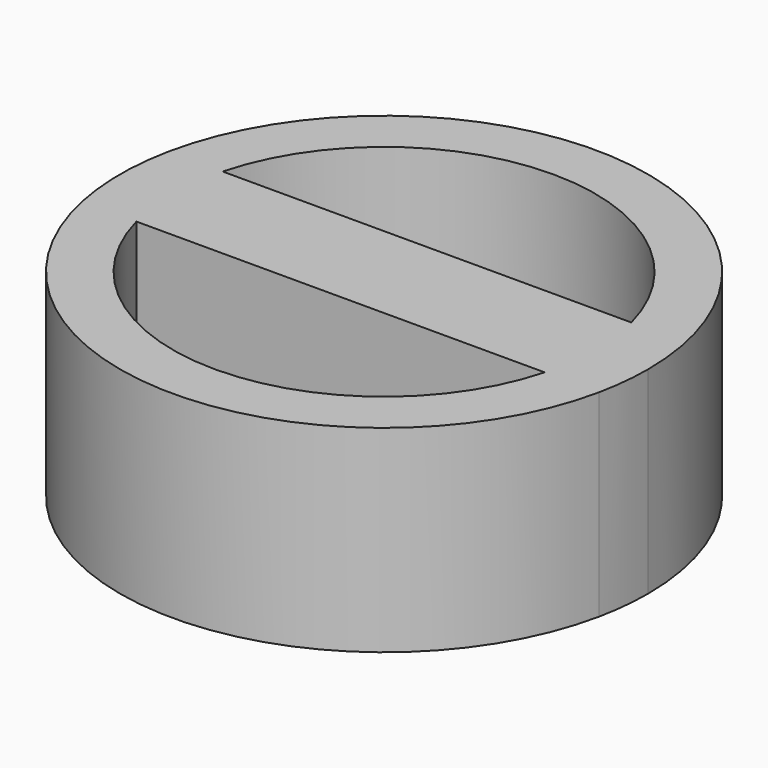
from build123d import *

# Parameters (mm, degrees)
F1_DEPTH = 25.4


with BuildPart() as f1:
    # F0 (on Top) → F1 (new body)
    with BuildSketch(Plane.XY):
        with BuildLine():
            Line((-38.3232010191, -9.2695544713), (-38.3232010191, 4.5363511242))
            ThreePointArc((-38.3232010191, 4.5363511242), (-39.0324708339, -2.3666016735), (-38.3232010191, -9.2695544713))
        make_face()
        with BuildLine():
            Line((-38.3232010191, -9.3673512232), (-38.3027394177, -9.3673512232))
            ThreePointArc((-38.3027394177, -9.3673512232), (-38.3130061994, -9.3184603754), (-38.3232010191, -9.2695544713))
            Line((-38.3232010191, -9.2695544713), (-38.3232010191, -9.3673512232))
        make_face()
        with BuildLine():
            Line((28.1299031098, -9.3673512232), (21.1608951311, -9.3673512232))
            ThreePointArc((21.1608951311, -9.3673512232), (-5.0864181539, -29.531504562), (-31.333731439, -9.3673512232))
            Line((-31.333731439, -9.3673512232), (-38.3027394177, -9.3673512232))
            ThreePointArc((-38.3027394177, -9.3673512232), (-5.0864181539, -36.3126543535), (28.1299031098, -9.3673512232))
        make_face()
        with BuildLine():
            ThreePointArc((-31.3596210728, 4.5363511242), (-5.0864181539, 24.798301215), (21.1867847649, 4.5363511242))
            Line((21.1867847649, 4.5363511242), (28.1299031098, 4.5363511242))
            Line((28.1299031098, 4.5363511242), (28.1299031098, -9.3673512232))
            ThreePointArc((28.1299031098, -9.3673512232), (28.6767088044, -5.8859411782), (28.859634526, -2.3666016735))
            ThreePointArc((28.859634526, -2.3666016735), (-1.6167704413, 31.4016680082), (-38.3232010191, 4.5363511242))
            Line((-38.3232010191, 4.5363511242), (-31.3596210728, 4.5363511242))
        make_face()
        with BuildLine():
            ThreePointArc((-31.333731439, -9.3673512232), (-32.2512739482, -2.4171844716), (-31.3596210728, 4.5363511242))
            Line((-31.3596210728, 4.5363511242), (-38.3232010191, 4.5363511242))
            Line((-38.3232010191, 4.5363511242), (-38.3232010191, -9.2695544713))
            ThreePointArc((-38.3232010191, -9.2695544713), (-38.3130061994, -9.3184603754), (-38.3027394177, -9.3673512232))
            Line((-38.3027394177, -9.3673512232), (-31.333731439, -9.3673512232))
        make_face()
        with BuildLine():
            ThreePointArc((-15.2330139437, -9.3673512232), (-17.413639831, -2.425814033), (-15.2997987426, 4.5363511242))
            Line((-15.2997987426, 4.5363511242), (-23.2268771343, 4.5363511242))
            ThreePointArc((-23.2268771343, 4.5363511242), (-24.4958041931, -2.4189746532), (-23.1893603206, -9.3673512232))
            Line((-23.1893603206, -9.3673512232), (-15.2330139437, -9.3673512232))
        make_face()
        with BuildLine():
            ThreePointArc((5.1269624347, 4.5363511242), (6.7006077517, 1.2430964686), (7.240945732, -2.3666016735))
            ThreePointArc((7.240945732, -2.3666016735), (6.6831332156, -6.0328751135), (5.0601776358, -9.3673512232))
            Line((5.0601776358, -9.3673512232), (13.0165240127, -9.3673512232))
            ThreePointArc((13.0165240127, -9.3673512232), (13.9936143598, -5.9274117808), (14.323038545, -2.3666016735))
            ThreePointArc((14.323038545, -2.3666016735), (14.0031531145, 1.1427113838), (13.0540408264, 4.5363511242))
            Line((13.0540408264, 4.5363511242), (5.1269624347, 4.5363511242))
        make_face()
        with BuildLine():
            ThreePointArc((5.0601776358, -9.3673512232), (6.6831332156, -6.0328751135), (7.240945732, -2.3666016735))
            ThreePointArc((7.240945732, -2.3666016735), (6.7006077517, 1.2430964686), (5.1269624347, 4.5363511242))
            Line((5.1269624347, 4.5363511242), (-15.2997987426, 4.5363511242))
            ThreePointArc((-15.2997987426, 4.5363511242), (-17.413639831, -2.425814033), (-15.2330139437, -9.3673512232))
            Line((-15.2330139437, -9.3673512232), (5.0601776358, -9.3673512232))
        make_face()
        with BuildLine():
            ThreePointArc((-23.1893603206, -9.3673512232), (-24.4958041931, -2.4189746532), (-23.2268771343, 4.5363511242))
            Line((-23.2268771343, 4.5363511242), (-31.3596210728, 4.5363511242))
            ThreePointArc((-31.3596210728, 4.5363511242), (-32.2512739482, -2.4171844716), (-31.333731439, -9.3673512232))
            Line((-31.333731439, -9.3673512232), (-23.1893603206, -9.3673512232))
        make_face()
        with BuildLine():
            Line((21.1867847649, 4.5363511242), (13.0540408264, 4.5363511242))
            ThreePointArc((13.0540408264, 4.5363511242), (14.0031531145, 1.1427113838), (14.323038545, -2.3666016735))
            ThreePointArc((14.323038545, -2.3666016735), (13.9936143598, -5.9274117808), (13.0165240127, -9.3673512232))
            Line((13.0165240127, -9.3673512232), (21.1608951311, -9.3673512232))
            ThreePointArc((21.1608951311, -9.3673512232), (21.8481104795, -5.8969155738), (22.0784847346, -2.3666016735))
            ThreePointArc((22.0784847346, -2.3666016735), (21.8546374564, 1.1135522801), (21.1867847649, 4.5363511242))
        make_face()
        with BuildLine():
            Line((28.1299031098, 4.5363511242), (21.1867847649, 4.5363511242))
            ThreePointArc((21.1867847649, 4.5363511242), (21.8546374564, 1.1135522801), (22.0784847346, -2.3666016735))
            ThreePointArc((22.0784847346, -2.3666016735), (21.8481104795, -5.8969155738), (21.1608951311, -9.3673512232))
            Line((21.1608951311, -9.3673512232), (28.1299031098, -9.3673512232))
            Line((28.1299031098, -9.3673512232), (28.1299031098, 4.5363511242))
        make_face()
    extrude(amount=F1_DEPTH)


solid = f1.part
